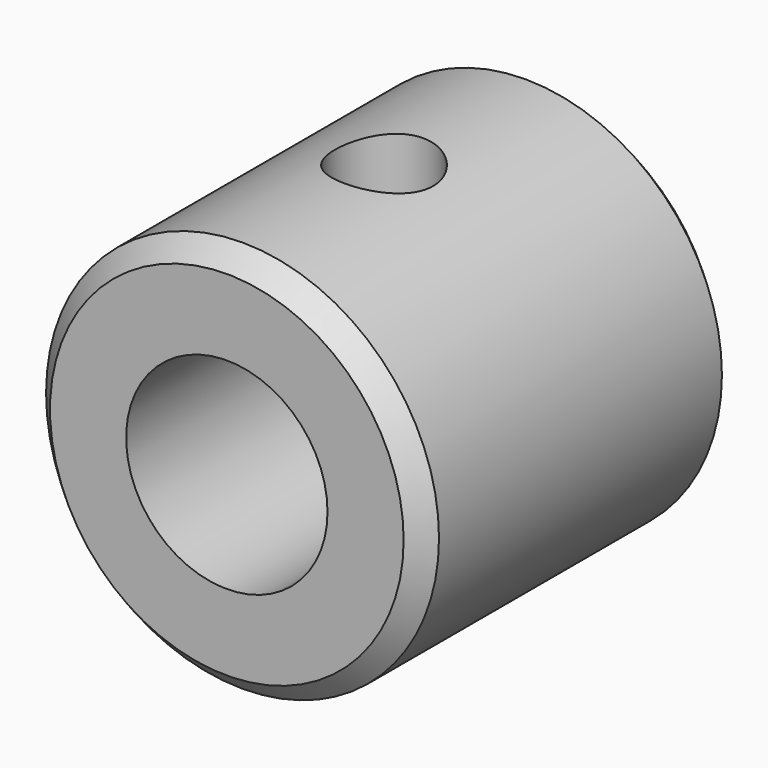
from build123d import *

# Parameters (mm, degrees)
F0_R     = 10
F0_R_2   = 5.125
F1_DEPTH = 20
F3_D     = 5
F3_DEPTH = 10.001
F4_SIZE  = 1


with BuildPart() as f1:
    # F0 (on Front) → F1 (new body)
    with BuildSketch(Plane.XZ):
        Circle(F0_R)
        Circle(F0_R_2, mode=Mode.SUBTRACT)
    extrude(amount=F1_DEPTH)

    # F3 (through all, one way)
    with BuildSketch(Plane(origin=(0, 0, 0), x_dir=(1, 0, 0), z_dir=(0, 0, -1))):
        with Locations((0, 10)):
            Circle(F3_D / 2)
    extrude(amount=-F3_DEPTH, mode=Mode.SUBTRACT)

    # F4
    f4_edges = [f1.edges().sort_by_distance(p)[0] for p in [
        (-10, -20, 0),
        (-10, 0, 0),
    ]]
    chamfer(f4_edges, length=F4_SIZE)


solid = f1.part
